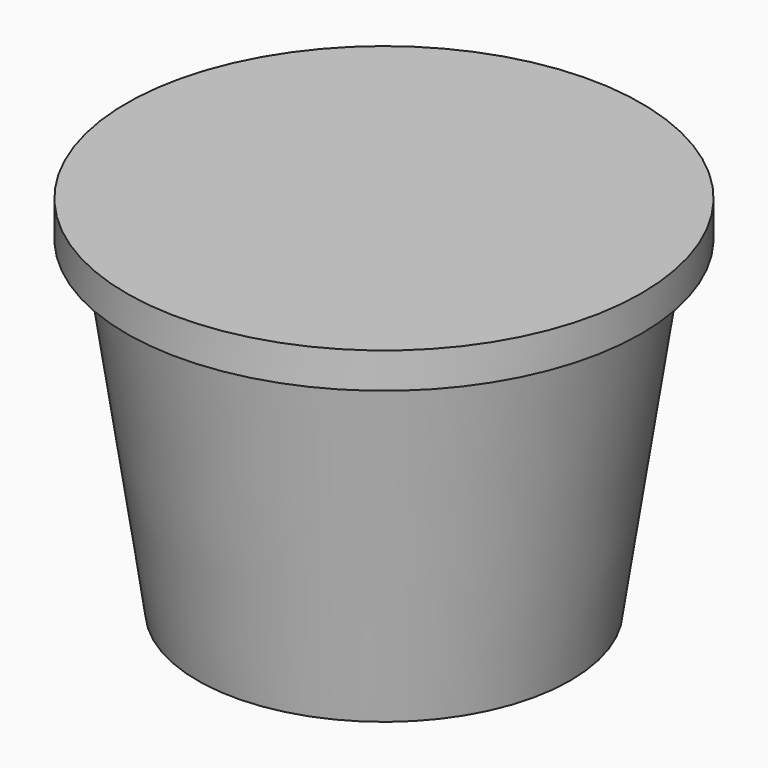
from build123d import *

# Parameters (mm, degrees)
F0_R = 21
F3_R = 26.5
F6_R = 29
F5_R = 29


with BuildPart() as f4:
    # F0 (on Top) → F4 section 0
    with BuildSketch(Plane.XY):
        Circle(F0_R)
    # F3 (on offset) → F4 section 1
    with BuildSketch(Plane.XY.offset(37)):
        Circle(F3_R)
    loft()

    # F6 (on offset) → F7 section 0
    with BuildSketch(Plane.XY.offset(37)):
        Circle(F6_R)
    # F5 (on offset) → F7 section 1
    with BuildSketch(Plane.XY.offset(41)):
        Circle(F5_R)
    loft()


solid = f4.part
